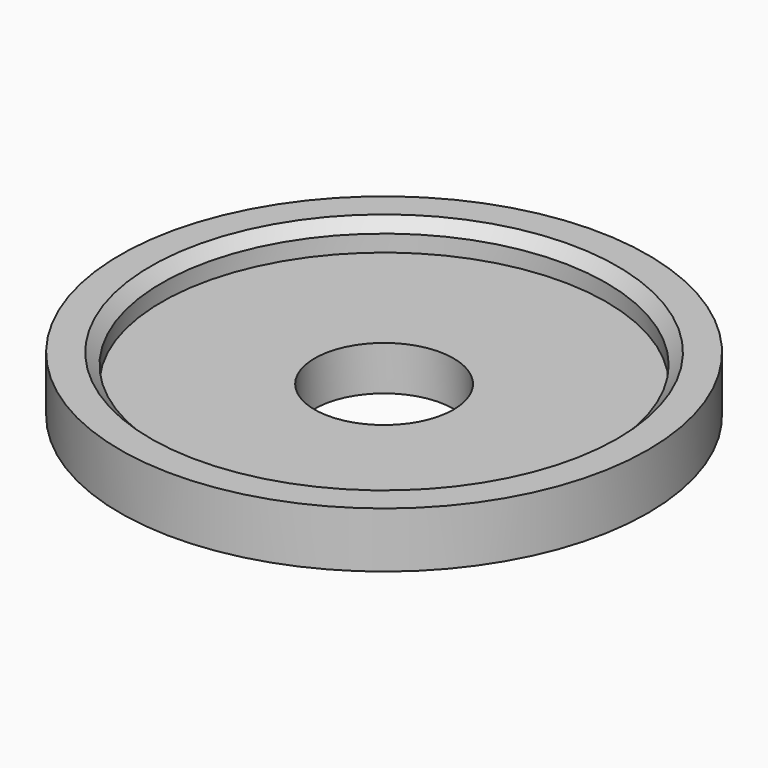
from build123d import *

# Parameters (mm, degrees)
SKETCH_R        = 2.5
PAD_DEPTH       = 0.6
SKETCH002_R     = 9.5
PAD001_DEPTH    = 1
SKETCH003_R     = 9.5
SKETCH003_R_2   = 8
PAD002_DEPTH    = 1
SKETCH004_R     = 2.5
POCKET_DEPTH    = 1.601
CHAMFER_SIZE    = 0.4
CHAMFER001_SIZE = 0.2


with BuildPart() as part:
    # Sketch → Pad (new body)
    with BuildSketch(Plane.XY):
        with BuildLine():
            ThreePointArc((-2.5, 3.122499), (-3.518971, 1.901799), (-3.981855, 0.380567))
            Line((-5.478695, -0.483634), (-3.981855, 0.380567))
            ThreePointArc((-5.478695, -0.483634), (-4.659167, -2.922699), (-2.81991, -4.722087))
            Line((-1.232265, -3.80546), (-2.81991, -4.722087))
            ThreePointArc((-1.232265, -3.80546), (0.117848, -3.998264), (1.454262, -3.726275))
            Line((2.992718, -4.614503), (1.454262, -3.726275))
            ThreePointArc((2.992718, -4.614503), (4.763149, -2.749985), (5.492638, -0.284484))
            Line((3.954108, 0.604177), (5.492638, -0.284484))
            ThreePointArc((3.954108, 0.604177), (3.46401, 2.000159), (2.5, 3.122499))
            Line((2.5, 3.122499), (2.5, 4.898979))
            ThreePointArc((2.5, 4.898979), (0, 5.5), (-2.5, 4.898979))
            Line((-2.5, 3.122499), (-2.5, 4.898979))
        make_face()
        Circle(SKETCH_R, mode=Mode.SUBTRACT)
    extrude(amount=PAD_DEPTH)

    # Sketch002 (on Face15 of Pad) → Pad001 (join)
    with BuildSketch(Plane.XY.offset(0.6)):
        Circle(SKETCH002_R)
    extrude(amount=PAD001_DEPTH)

    # Sketch003 (on Face3 of Pad001) → Pad002 (join)
    with BuildSketch(Plane.XY.offset(1.6)):
        Circle(SKETCH003_R)
        Circle(SKETCH003_R_2, mode=Mode.SUBTRACT)
    extrude(amount=PAD002_DEPTH)

    # Sketch004 (on Face20 of Pad002) → Pocket (cut, through all)
    with BuildSketch(Plane.XY.offset(1.6)):
        Circle(SKETCH004_R)
    extrude(amount=-POCKET_DEPTH, mode=Mode.SUBTRACT)

    # Chamfer
    chamfer_edges = [part.edges().sort_by_distance(p)[0] for p in [
        (-8, 0, 2.6),
    ]]
    chamfer(chamfer_edges, length=CHAMFER_SIZE)

    # Chamfer001
    chamfer001_edges = [part.edges().sort_by_distance(p)[0] for p in [
        (4.723373, 0.159847, 0),
        (4.763149, -2.749985, 0),
        (0.117848, -3.998264, 0),
        (-2.026088, -4.263773, 0),
        (-4.659167, -2.922699, 0),
        (-4.730275, -0.051534, 0),
        (-3.518971, 1.901799, 0),
        (-2.5, 4.010739, 0),
        (0, 5.5, 0),
        (2.5, 4.010739, 0),
        (3.46401, 2.000159, 0),
    ]]
    chamfer(chamfer001_edges, length=CHAMFER001_SIZE)


solid = part.part
